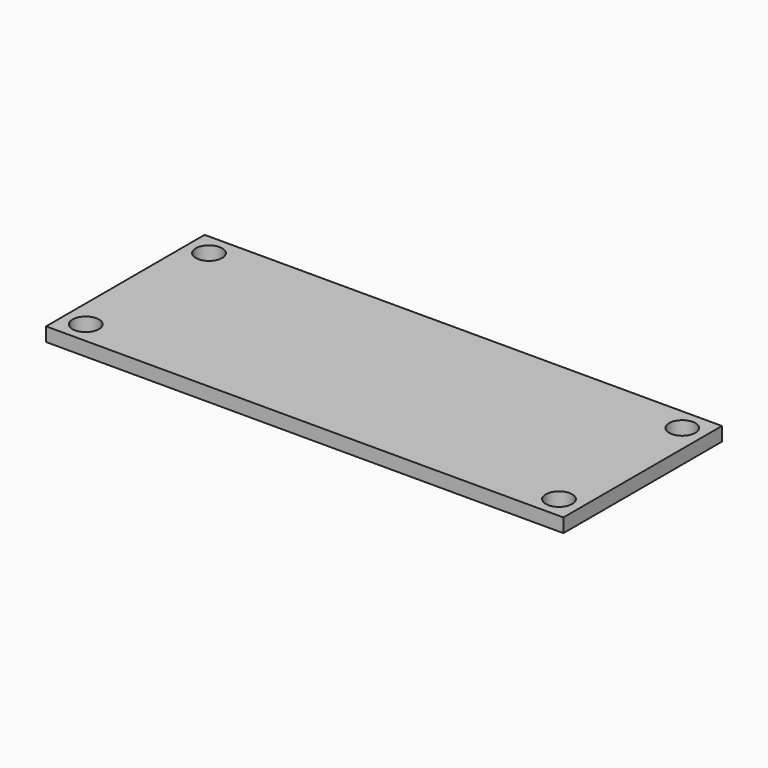
from build123d import *

# Parameters (mm, degrees)
SKETCH_W  = 59.69
SKETCH_H  = 22.86
SKETCH_R  = 1.524
PAD_DEPTH = 1.6


with BuildPart() as part:
    # Sketch → Pad (new body)
    with BuildSketch(Plane.XY):
        Rectangle(SKETCH_W, SKETCH_H)
        with Locations((-27.305, 8.89)):
            Circle(SKETCH_R, mode=Mode.SUBTRACT)
        with Locations((-27.305, -8.89)):
            Circle(SKETCH_R, mode=Mode.SUBTRACT)
        with Locations((27.305, -8.89)):
            Circle(SKETCH_R, mode=Mode.SUBTRACT)
        with Locations((27.305, 8.89)):
            Circle(SKETCH_R, mode=Mode.SUBTRACT)
    extrude(amount=PAD_DEPTH)


solid = part.part
